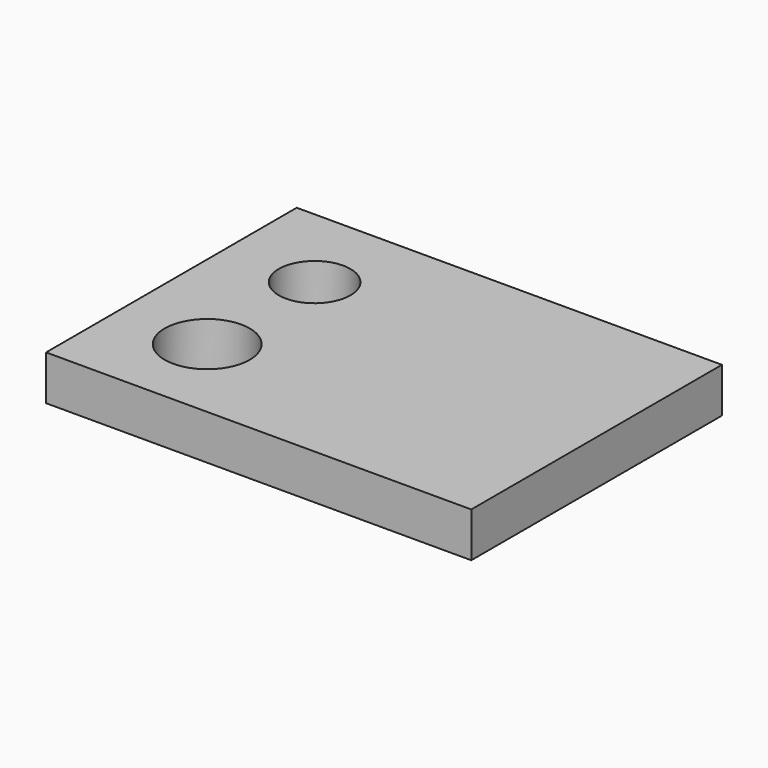
from build123d import *

# Parameters (mm, degrees)
SKETCH_W   = 95
SKETCH_H   = 70
SKETCH_R   = 8
SKETCH_R_2 = 9.5
PAD_DEPTH  = 10


with BuildPart() as part:
    # Sketch → Pad (new body)
    with BuildSketch(Plane.XY):
        with Locations((27.5, -15)):
            Rectangle(SKETCH_W, SKETCH_H)
        Circle(SKETCH_R, mode=Mode.SUBTRACT)
        with Locations((0, -30)):
            Circle(SKETCH_R_2, mode=Mode.SUBTRACT)
    extrude(amount=PAD_DEPTH)


solid = part.part
